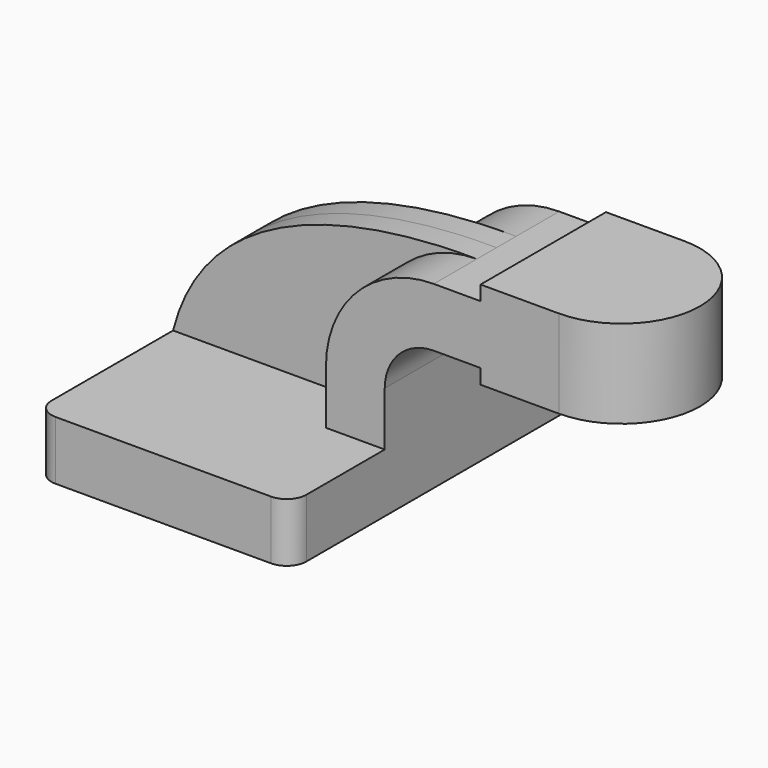
from build123d import *

# Parameters (mm, degrees)
F1_DEPTH = 63.5
F0_W     = 25.4
F0_H     = 19.05
F0_H_2   = 4.7498
F0_H_3   = 4.7752
F2_DEPTH = 25.4
F3_DEPTH = 7.9375
F5_R     = 6.35


with BuildPart() as f1:
    # F0 (on Front) → F1 (new body, symmetric)
    with BuildSketch(Plane.XZ):
        Polygon((41.275, -9.525), (41.275, 9.525), (22.225, 9.525), (-41.275, 9.525), (-41.275, -9.525), align=None)
    extrude(amount=F1_DEPTH, both=True)

    # F0 (on Front) → F2 (join, symmetric)
    with BuildSketch(Plane.XZ):
        with BuildLine():
            Line((22.225, 9.525), (41.275, 9.525))
            Line((41.275, 9.525), (41.275, 27.0002))
            ThreePointArc((41.275, 27.0002), (45.9246798487, 38.2255201513), (57.15, 42.8752))
            Line((57.15, 42.8752), (72.3065137863, 42.8752))
            Line((72.3065137863, 42.8752), (72.3065137863, 61.9252))
            Line((72.3065137863, 61.9252), (57.15, 61.9252))
            ThreePointArc((57.15, 61.9252), (32.4542956671, 51.6959043329), (22.225, 27.0002))
            Line((22.225, 27.0002), (22.225, 9.525))
        make_face()
        with Locations((85.0065137863, 52.4002)):
            Rectangle(F0_W, F0_H)
        with Locations((85.0065137863, 64.3001)):
            Rectangle(F0_W, F0_H_2)
        with Locations((85.0065137863, 40.4876)):
            Rectangle(F0_W, F0_H_3)
    extrude(amount=F2_DEPTH, both=True)

    # F0 (on Front) → F3 (join, symmetric)
    with BuildSketch(Plane.XZ):
        with BuildLine():
            Line((-41.275, 9.525), (22.225, 9.525))
            Line((22.225, 9.525), (22.225, 27.0002))
            ThreePointArc((22.225, 27.0002), (32.4542956671, 51.6959043329), (57.15, 61.9252))
            add(Edge.make_bspline(
                [(-41.275, 9.525), (-29.7216698527, 55.1520250738), (24.5722677241, 62.3028567907), (57.15, 61.9252)],
                knots=[0, 0, 0, 0, 111.5045361635, 111.5045361635, 111.5045361635, 111.5045361635], degree=3))
        make_face()
    extrude(amount=F3_DEPTH, both=True)

    # F0 (on Front) → F4 (revolve)
    with BuildSketch(Plane.XZ):
        Polygon((97.7065137863, 61.9252), (97.7065137863, 42.8752), (97.7065137863, 38.1), (123.1065137863, 38.1), (123.1065137863, 66.675), (97.7065137863, 66.675), align=None)
    revolve(axis=Axis((97.7065137863, 0, 52.3875), (0, 0, 1)))

    # F5
    f5_edges = [f1.edges().sort_by_distance(p)[0] for p in [
        (41.275, -63.5, 0),
        (41.275, 63.5, 0),
        (-41.275, 63.5, 0),
        (-41.275, -63.5, 0),
    ]]
    fillet(f5_edges, radius=F5_R)


solid = f1.part
